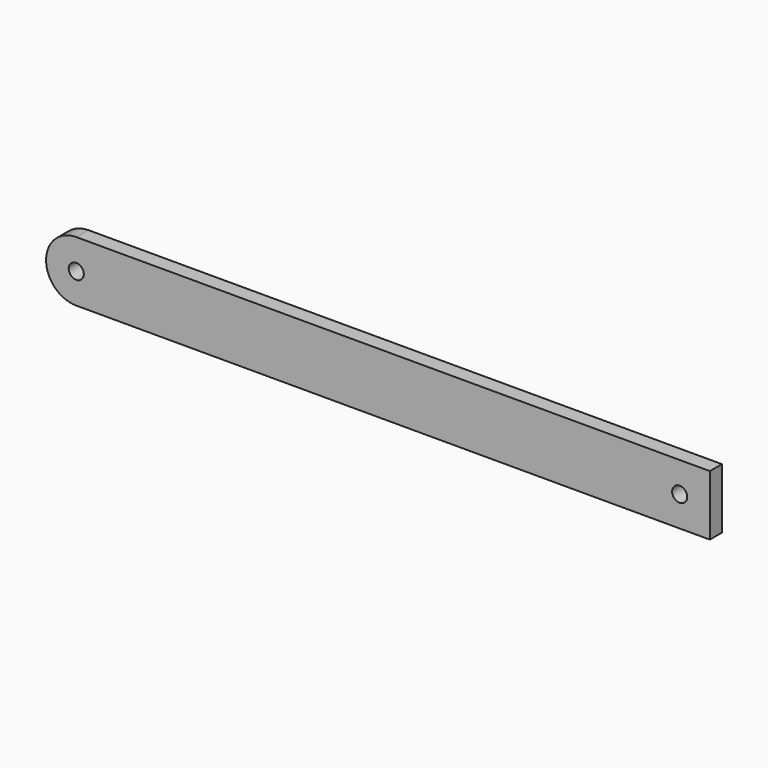
from build123d import *

# Parameters (mm, degrees)
F1_DEPTH      = 1.5875
F1_DEPTH_BACK = 1.5875


with BuildPart() as f1:
    # F0 (on Front) → F1 (new body, two sides)
    with BuildSketch(Plane.XZ) as f1_sk:
        with BuildLine():
            Line((68.744436, 6.35), (68.744436, 12.7))
            Line((68.744436, 12.7), (-64.605564, 12.7))
            ThreePointArc((-64.605564, 12.7), (-69.095692, 10.840128), (-70.955564, 6.35))
            Line((-70.955564, 6.35), (-66.193064, 6.35))
            ThreePointArc((-66.193064, 6.35), (-64.605564, 7.9375), (-63.018064, 6.35))
            Line((-63.018064, 6.35), (60.806936, 6.35))
            ThreePointArc((60.806936, 6.35), (62.394436, 7.9375), (63.981936, 6.35))
            Line((63.981936, 6.35), (68.744436, 6.35))
        make_face()
        with BuildLine():
            Line((68.744436, 0), (68.744436, 6.35))
            Line((68.744436, 6.35), (63.981936, 6.35))
            ThreePointArc((63.981936, 6.35), (62.394436, 4.7625), (60.806936, 6.35))
            Line((60.806936, 6.35), (-63.018064, 6.35))
            ThreePointArc((-63.018064, 6.35), (-64.605564, 4.7625), (-66.193064, 6.35))
            Line((-66.193064, 6.35), (-70.955564, 6.35))
            ThreePointArc((-70.955564, 6.35), (-69.095692, 1.859872), (-64.605564, 0))
            Line((-64.605564, 0), (68.744436, 0))
        make_face()
    extrude(amount=F1_DEPTH)
    extrude(f1_sk.sketch, amount=-F1_DEPTH_BACK)


solid = f1.part
